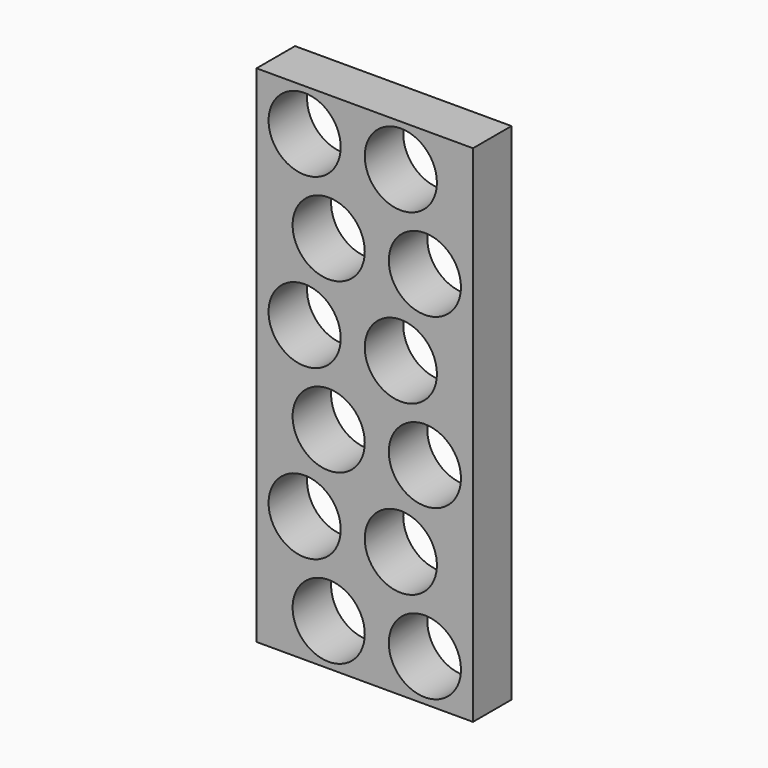
from build123d import *

# Parameters (mm, degrees)
F0_W     = 114.3
F0_H     = 266.7
F1_DEPTH = 25.4
F2_R     = 19.05
F3_DEPTH = 25.4


with BuildPart() as f1:
    # F0 (on Front) → F1 (new body)
    with BuildSketch(Plane.XZ):
        with Locations((-57.15, 133.35)):
            Rectangle(F0_W, F0_H)
    extrude(amount=F1_DEPTH)

    # F2 (on face) → F3 (cut)
    with BuildSketch(Plane.XZ.offset(25.4)):
        with BuildLine():
            Line((-25.4, 22.225), (-6.35, 22.225))
            ThreePointArc((-6.35, 22.225), (-25.4, 41.275), (-44.45, 22.225))
            Line((-44.45, 22.225), (-25.4, 22.225))
        make_face()
        with Locations((-76.2, 22.225)):
            Circle(F2_R)
        with BuildLine():
            ThreePointArc((-44.45, 22.225), (-25.4, 3.175), (-6.35, 22.225))
            Line((-6.35, 22.225), (-25.4, 22.225))
            Line((-25.4, 22.225), (-44.45, 22.225))
        make_face()
        with BuildLine():
            ThreePointArc((-69.85, 66.675), (-88.9, 85.725), (-107.95, 66.675))
            Line((-107.95, 66.675), (-88.9, 66.675))
            Line((-88.9, 66.675), (-69.85, 66.675))
        make_face()
        with BuildLine():
            ThreePointArc((-19.05, 66.675), (-38.1, 85.725), (-57.15, 66.675))
            ThreePointArc((-57.15, 66.675), (-38.1, 47.625), (-19.05, 66.675))
        make_face()
        with BuildLine():
            Line((-88.9, 66.675), (-107.95, 66.675))
            ThreePointArc((-107.95, 66.675), (-88.9, 47.625), (-69.85, 66.675))
            Line((-69.85, 66.675), (-88.9, 66.675))
        make_face()
        with Locations((-25.4, 111.125)):
            Circle(F2_R)
        with Locations((-76.2, 111.125)):
            Circle(F2_R)
        with Locations((-25.4, 200.025)):
            Circle(F2_R)
        with Locations((-76.2, 200.025)):
            Circle(F2_R)
        with Locations((-38.1, 155.575)):
            Circle(F2_R)
        with Locations((-88.9, 155.575)):
            Circle(F2_R)
        with Locations((-38.1, 244.475)):
            Circle(F2_R)
        with Locations((-88.9, 244.475)):
            Circle(F2_R)
    extrude(amount=-F3_DEPTH, mode=Mode.SUBTRACT)


solid = f1.part
